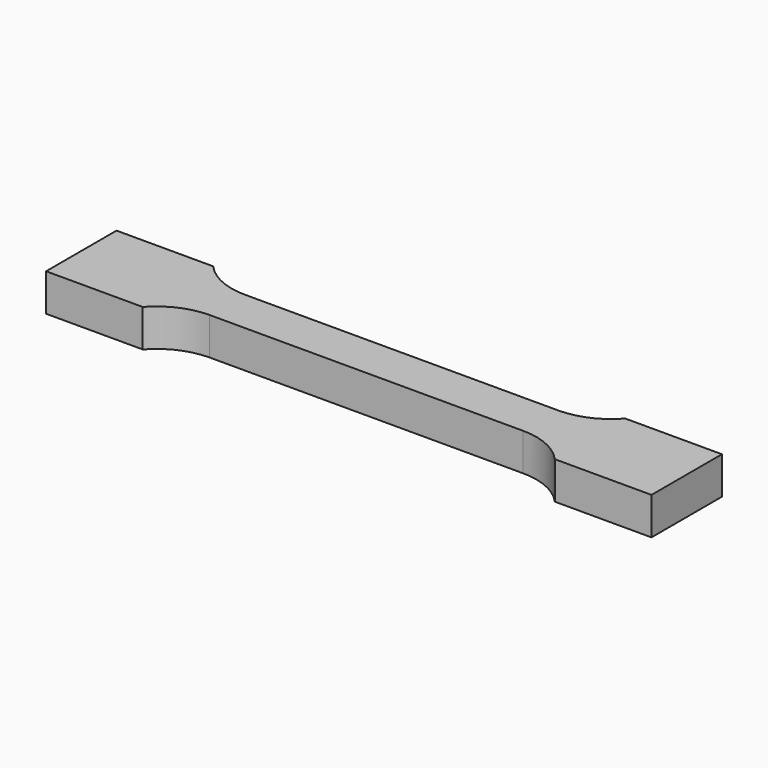
from build123d import *

# Parameters (mm, degrees)
F1_DEPTH = 3.4


with BuildPart() as f1:
    # F0 (on Top) → F1 (new body, symmetric)
    with BuildSketch(Plane.XY):
        with BuildLine():
            Line((37.44427191, -8), (55, -8))
            Line((55, -8), (55, 8))
            Line((55, 8), (37.44427191, 8))
            ThreePointArc((37.44427191, 8), (33.3989794856, 5.0455488499), (28.5, 4))
            Line((28.5, 4), (-28.5, 4))
            ThreePointArc((-28.5, 4), (-33.3989794856, 5.0455488499), (-37.44427191, 8))
            Line((-37.44427191, 8), (-55, 8))
            Line((-55, 8), (-55, -8))
            Line((-55, -8), (-37.44427191, -8))
            ThreePointArc((-37.44427191, -8), (-33.3989794856, -5.0455488499), (-28.5, -4))
            Line((-28.5, -4), (28.5, -4))
            ThreePointArc((28.5, -4), (33.3989794856, -5.0455488499), (37.44427191, -8))
        make_face()
        with BuildLine():
            Line((37.44427191, -8), (55, -8))
            Line((55, -8), (55, 8))
            Line((55, 8), (37.44427191, 8))
            ThreePointArc((37.44427191, 8), (33.3989794856, 5.0455488499), (28.5, 4))
            Line((28.5, 4), (-28.5, 4))
            ThreePointArc((-28.5, 4), (-33.3989794856, 5.0455488499), (-37.44427191, 8))
            Line((-37.44427191, 8), (-55, 8))
            Line((-55, 8), (-55, -8))
            Line((-55, -8), (-37.44427191, -8))
            ThreePointArc((-37.44427191, -8), (-33.3989794856, -5.0455488499), (-28.5, -4))
            Line((-28.5, -4), (28.5, -4))
            ThreePointArc((28.5, -4), (33.3989794856, -5.0455488499), (37.44427191, -8))
        make_face()
    extrude(amount=F1_DEPTH, both=True)


solid = f1.part
